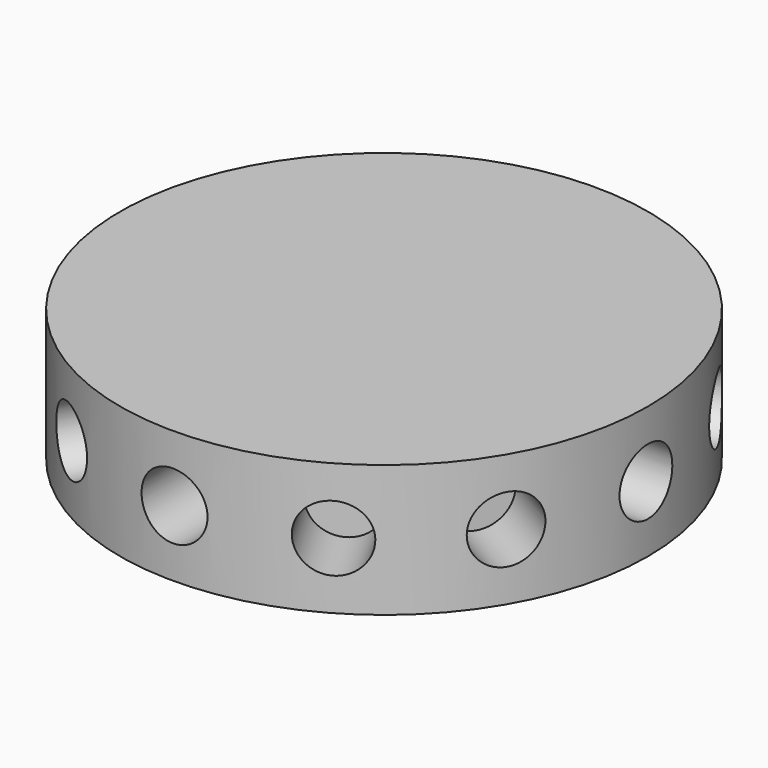
from build123d import *

# Parameters (mm, degrees)
F0_R     = 20
F1_DEPTH = 10
F3_R     = 2.5
F4_DEPTH = 5
F6_COUNT = 12


with BuildPart() as f1:
    # F0 (on Top) → F1 (new body)
    with BuildSketch(Plane.XY):
        Circle(F0_R)
    extrude(amount=F1_DEPTH)


with BuildPart() as f4:
    # F3 (on offset) → F4 (new body)
    with BuildSketch(Plane.XZ.offset(20)):
        with Locations((0, 5)):
            Circle(F3_R)
    extrude(amount=-F4_DEPTH)


with BuildPart() as f6_1:
    # F6: instance of F4
    add(f4.part.rotate(Axis((0, 0, 0), (0, 0, -1)), 1 * 360 / F6_COUNT))


with BuildPart() as f6_2:
    # F6: instance of F4
    add(f4.part.rotate(Axis((0, 0, 0), (0, 0, -1)), 2 * 360 / F6_COUNT))


with BuildPart() as f6_3:
    # F6: instance of F4
    add(f4.part.rotate(Axis((0, 0, 0), (0, 0, -1)), 3 * 360 / F6_COUNT))


with BuildPart() as f6_4:
    # F6: instance of F4
    add(f4.part.rotate(Axis((0, 0, 0), (0, 0, -1)), 4 * 360 / F6_COUNT))


with BuildPart() as f6_5:
    # F6: instance of F4
    add(f4.part.rotate(Axis((0, 0, 0), (0, 0, -1)), 5 * 360 / F6_COUNT))


with BuildPart() as f6_6:
    # F6: instance of F4
    add(f4.part.rotate(Axis((0, 0, 0), (0, 0, -1)), 6 * 360 / F6_COUNT))


with BuildPart() as f6_7:
    # F6: instance of F4
    add(f4.part.rotate(Axis((0, 0, 0), (0, 0, -1)), 7 * 360 / F6_COUNT))


with BuildPart() as f6_8:
    # F6: instance of F4
    add(f4.part.rotate(Axis((0, 0, 0), (0, 0, -1)), 8 * 360 / F6_COUNT))


with BuildPart() as f6_9:
    # F6: instance of F4
    add(f4.part.rotate(Axis((0, 0, 0), (0, 0, -1)), 9 * 360 / F6_COUNT))


with BuildPart() as f6_10:
    # F6: instance of F4
    add(f4.part.rotate(Axis((0, 0, 0), (0, 0, -1)), 10 * 360 / F6_COUNT))


with BuildPart() as f6_11:
    # F6: instance of F4
    add(f4.part.rotate(Axis((0, 0, 0), (0, 0, -1)), 11 * 360 / F6_COUNT))


with BuildPart() as f1_1:
    add(f1.part)

    # F7: cut F6_2, F6_1, F4, F6_11, F6_3, F6_9, F6_10, F6_8, F6_4, F6_5, F6_6, F6_7
    add(f6_2.part, mode=Mode.SUBTRACT)
    add(f6_1.part, mode=Mode.SUBTRACT)
    add(f4.part, mode=Mode.SUBTRACT)
    add(f6_11.part, mode=Mode.SUBTRACT)
    add(f6_3.part, mode=Mode.SUBTRACT)
    add(f6_9.part, mode=Mode.SUBTRACT)
    add(f6_10.part, mode=Mode.SUBTRACT)
    add(f6_8.part, mode=Mode.SUBTRACT)
    add(f6_4.part, mode=Mode.SUBTRACT)
    add(f6_5.part, mode=Mode.SUBTRACT)
    add(f6_6.part, mode=Mode.SUBTRACT)
    add(f6_7.part, mode=Mode.SUBTRACT)


solid = f1_1.part
